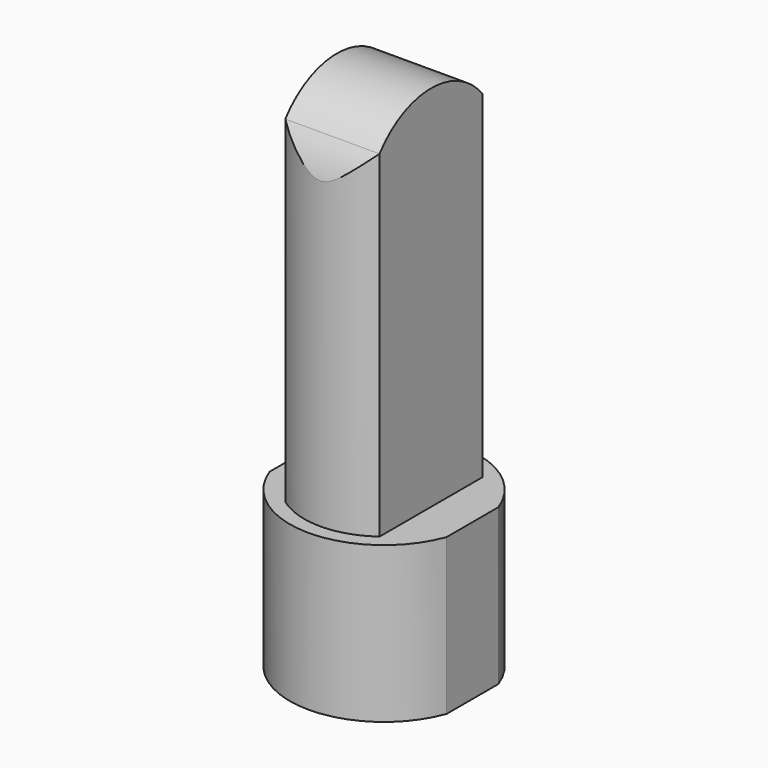
from build123d import *

# Parameters (mm, degrees)
F1_DEPTH = 38
F3_DEPTH = 93
F5_DEPTH = 35
F6_R     = 20.15
F7_DEPTH = 26


with BuildPart() as f1:
    # F0 (on Top) → F1 (new body)
    with BuildSketch(Plane.XY):
        with BuildLine():
            Line((21.6, -7.9018985061), (21.6, 7.9018985061))
            ThreePointArc((21.6, 7.9018985061), (0, 23), (-21.6, 7.9018985061))
            Line((-21.6, 7.9018985061), (-21.6, -7.9018985061))
            ThreePointArc((-21.6, -7.9018985061), (0, -23), (21.6, -7.9018985061))
        make_face()
    extrude(amount=F1_DEPTH)

    # F2 (on face) → F3 (join)
    with BuildSketch(Plane.XY.offset(38)):
        with BuildLine():
            Line((11.5, 0), (11.5, 15.748015748))
            ThreePointArc((11.5, 15.748015748), (0, 19.5), (-11.5, 15.748015748))
            Line((-11.5, 15.748015748), (-11.5, -15.748015748))
            ThreePointArc((-11.5, -15.748015748), (0, -19.5), (11.5, -15.748015748))
            Line((11.5, -15.748015748), (11.5, 0))
        make_face()
    extrude(amount=F3_DEPTH)

    # F4 (on face) → F5 (cut)
    with BuildSketch(Plane.YZ.offset(11.5)):
        with BuildLine():
            ThreePointArc((15.748015748, 120.2564661625), (18.8743223664, 114.4792683229), (19.9554745068, 108))
            Line((19.9554745068, 108), (37.2544378042, 135.0286304951))
            Line((37.2544378042, 135.0286304951), (-38.2512100041, 135.0286304951))
            Line((-38.2512100041, 135.0286304951), (-19.9554745068, 108))
            ThreePointArc((-19.9554745068, 108), (-18.8743223664, 114.4792683229), (-15.748015748, 120.2564661625))
            Line((-15.748015748, 120.2564661625), (-15.748015748, 131))
            Line((-15.748015748, 131), (15.748015748, 131))
            Line((15.748015748, 131), (15.748015748, 120.2564661625))
        make_face()
        with BuildLine():
            ThreePointArc((-15.748015748, 120.2564661625), (0, 127.9554745068), (15.748015748, 120.2564661625))
            Line((15.748015748, 120.2564661625), (15.748015748, 131))
            Line((15.748015748, 131), (-15.748015748, 131))
            Line((-15.748015748, 131), (-15.748015748, 120.2564661625))
        make_face()
    extrude(amount=-F5_DEPTH, mode=Mode.SUBTRACT)

    # F6 (on face) → F7 (cut)
    with BuildSketch(Plane(origin=(0, 0, 0), x_dir=(1, 0, 0), z_dir=(0, 0, -1))):
        Circle(F6_R)
    extrude(amount=-F7_DEPTH, mode=Mode.SUBTRACT)


solid = f1.part
